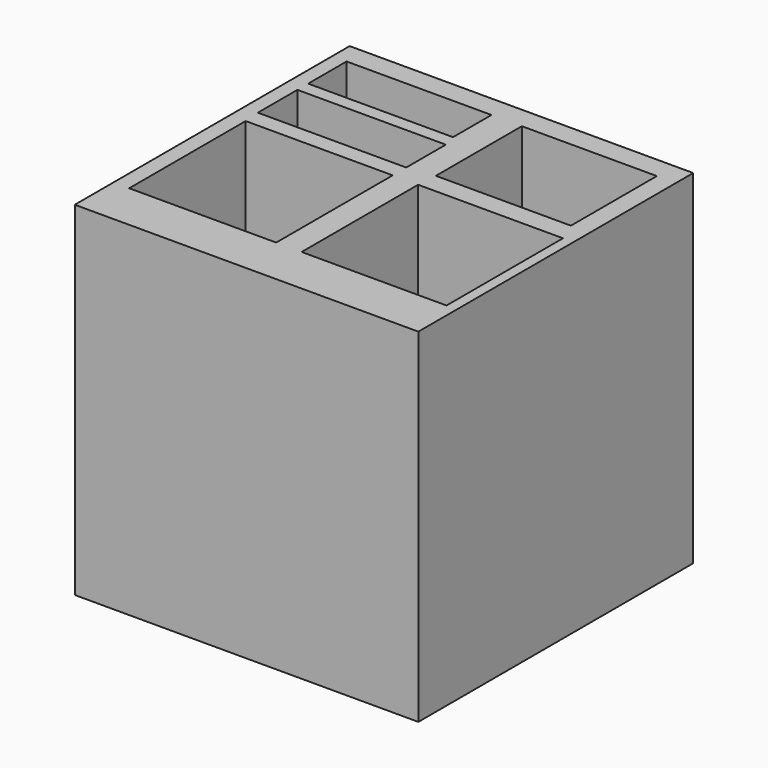
from build123d import *

# Parameters (mm, degrees)
F0_W     = 914.4
F0_H     = 914.4
F1_DEPTH = 914.4
F2_W     = 385.581643
F2_H     = 127.900242
F2_W_2   = 359.249261
F2_H_2   = 285.894632
F2_W_3   = 394.986093
F2_H_3   = 131.66207
F2_W_4   = 391.224324
F2_H_4   = 387.462557
F2_W_5   = 385.581654
F3_DEPTH = 762


with BuildPart() as f1:
    # F0 (on Top) → F1 (new body)
    with BuildSketch(Plane.XY):
        with Locations((-457.2, 457.2)):
            Rectangle(F0_W, F0_H)
    extrude(amount=F1_DEPTH)

    # F2 (on face) → F3 (cut)
    with BuildSketch(Plane.XY.offset(914.4)):
        with Locations((-683.364495, 792.455852)):
            Rectangle(F2_W, F2_H)
        with Locations((-230.070935, 713.458657)):
            Rectangle(F2_W_2, F2_H_2)
        with Locations((-678.66227, 626.937896)):
            Rectangle(F2_W_3, F2_H_3)
        with Locations((-676.781386, 322.234362)):
            Rectangle(F2_W_4, F2_H_4)
        with Locations((-220.666507, 322.234362)):
            Rectangle(F2_W_5, F2_H_4)
    extrude(amount=-F3_DEPTH, mode=Mode.SUBTRACT)


solid = f1.part
